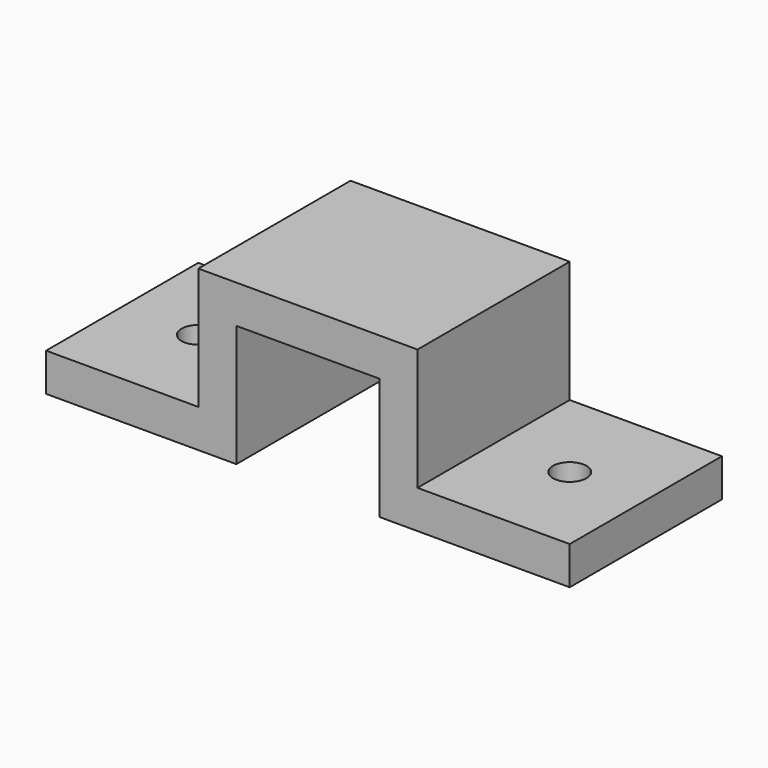
from build123d import *

# Parameters (mm, degrees)
F1_DEPTH = 15.875
F2_R     = 1.397
F3_DEPTH = 25.4


with BuildPart() as f1:
    # F0 (on Front) → F1 (new body)
    with BuildSketch(Plane.XZ):
        Polygon((0.703792, -5.557425), (0.703792, 1.427575), (12.641792, 1.427575), (12.641792, -5.557425), (12.641792, -8.732425), (28.516792, -8.732425), (28.516792, -5.557425), (15.816792, -5.557425), (15.816792, 4.602575), (-2.471208, 4.602575), (-2.471208, 0), (-2.471208, -5.557425), (-15.171208, -5.557425), (-15.171208, -8.732425), (-2.471208, -8.732425), (0.703792, -8.732425), align=None)
    extrude(amount=F1_DEPTH)

    # F2 (on face) → F3 (cut)
    with BuildSketch(Plane.XY.offset(-5.557425)):
        with Locations((-8.821208, -7.9375)):
            Circle(F2_R)
        with Locations((22.166792, -7.9375)):
            Circle(F2_R)
    extrude(amount=-F3_DEPTH, mode=Mode.SUBTRACT)


solid = f1.part
